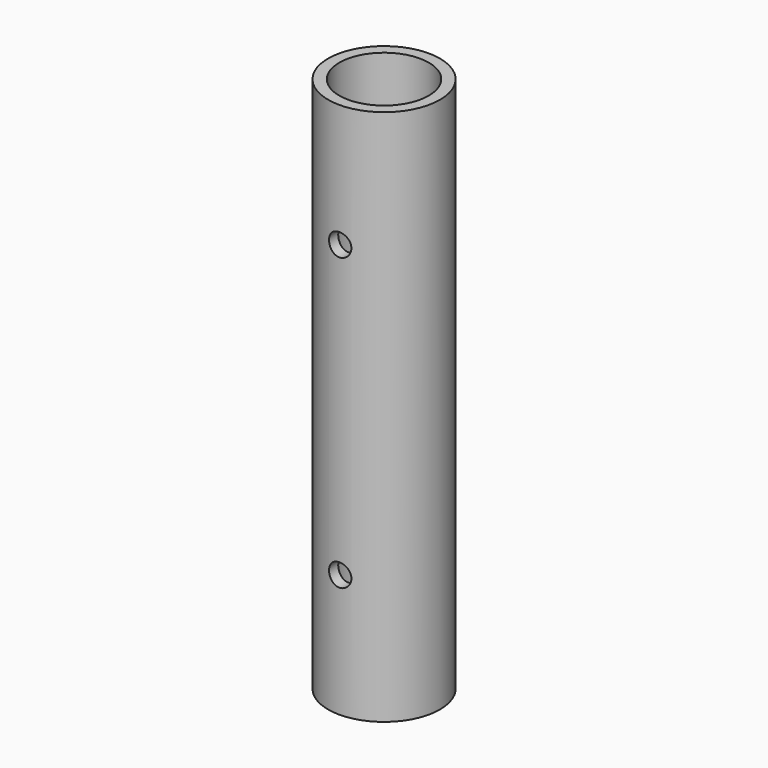
from build123d import *

# Parameters (mm, degrees)
F0_R     = 31.75
F1_DEPTH = 152.4
F2_R     = 25.4
F3_DEPTH = 304.8
F4_R     = 6.35
F5_DEPTH = 31.75


with BuildPart() as f1:
    # F0 (on Top) → F1 (new body, symmetric)
    with BuildSketch(Plane.XY):
        Circle(F0_R)
    extrude(amount=F1_DEPTH, both=True)

    # F2 (on face) → F3 (cut)
    with BuildSketch(Plane(origin=(0, 0, -152.4), x_dir=(1, 0, 0), z_dir=(0, 0, -1))):
        Circle(F2_R)
    extrude(amount=-F3_DEPTH, mode=Mode.SUBTRACT)

    # F4 (on Front) → F5 (cut, symmetric)
    with BuildSketch(Plane.XZ):
        with Locations((0, 82.55)):
            Circle(F4_R)
        with Locations((0, -82.55)):
            Circle(F4_R)
    extrude(amount=F5_DEPTH, both=True, mode=Mode.SUBTRACT)


solid = f1.part
